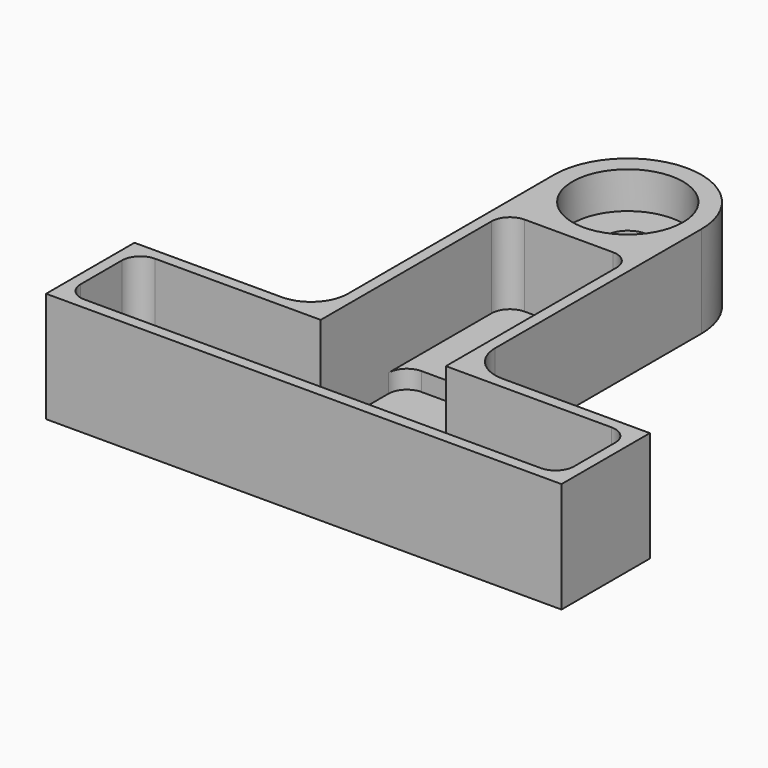
from build123d import *

# Parameters (mm, degrees)
F1_DEPTH  = 30
F2_W      = 40
F2_H      = 70
F3_DEPTH  = 5
F5_DEPTH  = 27
F6_W      = 34
F6_H      = 35
F7_DEPTH  = 22
F8_R      = 15
F9_DEPTH  = 10
F10_R     = 6
F11_DEPTH = 30.001
F12_R     = 10
F13_R     = 5
F14_R     = 15
F15_DEPTH = 10
F16_R     = 2
F17_DEPTH = 8.001


with BuildPart() as f1:
    # F0 (on Top) → F1 (new body)
    with BuildSketch(Plane.XY):
        with BuildLine():
            Line((20, 30), (20, 110))
            ThreePointArc((20, 110), (0, 130), (-20, 110))
            Line((-20, 110), (-20, 30))
            Line((-20, 30), (-70, 30))
            Line((-70, 30), (-70, 0))
            Line((-70, 0), (70, 0))
            Line((70, 0), (70, 30))
            Line((70, 30), (20, 30))
        make_face()
    extrude(amount=F1_DEPTH)

    # F2 (on face) → F3 (cut)
    with BuildSketch(Plane.XY):
        with Locations((0, 95)):
            Rectangle(F2_W, F2_H)
    extrude(amount=F3_DEPTH, mode=Mode.SUBTRACT)

    # F4 (on face) → F5 (cut)
    with BuildSketch(Plane.XY.offset(30)):
        Polygon((-17, 55), (-17, 27), (-67, 27), (-67, 3), (67, 3), (67, 27), (17, 27), (17, 55), align=None)
    extrude(amount=-F5_DEPTH, mode=Mode.SUBTRACT)

    # F6 (on face) → F7 (cut)
    with BuildSketch(Plane.XY.offset(30)):
        with Locations((0, 72.5)):
            Rectangle(F6_W, F6_H)
    extrude(amount=-F7_DEPTH, mode=Mode.SUBTRACT)

    # F8 (on face) → F9 (cut)
    with BuildSketch(Plane.XY.offset(30)):
        with Locations((0, 110)):
            Circle(F8_R)
    extrude(amount=-F9_DEPTH, mode=Mode.SUBTRACT)

    # F10 (on face) → F11 (cut, through all)
    with BuildSketch(Plane.XY.offset(30)):
        with Locations((0, 110)):
            Circle(F10_R)
    extrude(amount=-F11_DEPTH, mode=Mode.SUBTRACT)

    # F12
    f12_edges = [f1.edges().sort_by_distance(p)[0] for p in [
        (20, 30, 15),
        (-20, 30, 15),
    ]]
    fillet(f12_edges, radius=F12_R)

    # F13
    f13_edges = [f1.edges().sort_by_distance(p)[0] for p in [
        (-17, 90, 19),
        (-67, 27, 16.5),
        (17, 90, 19),
        (67, 27, 16.5),
        (-67, 3, 16.5),
        (67, 3, 16.5),
        (-17, 55, 5.5),
        (17, 55, 5.5),
    ]]
    fillet(f13_edges, radius=F13_R)

    # F14 (on face) → F15 (cut)
    with BuildSketch(Plane(origin=(0, 0, 5), x_dir=(1, 0, 0), z_dir=(0, 0, -1))):
        with Locations((0, -110)):
            Circle(F14_R)
    extrude(amount=-F15_DEPTH, mode=Mode.SUBTRACT)

    # F16 (on face) → F17 (cut, through all)
    with BuildSketch(Plane.XY.offset(8)):
        with Locations((0, 75)):
            Circle(F16_R)
    extrude(amount=-F17_DEPTH, mode=Mode.SUBTRACT)


solid = f1.part
